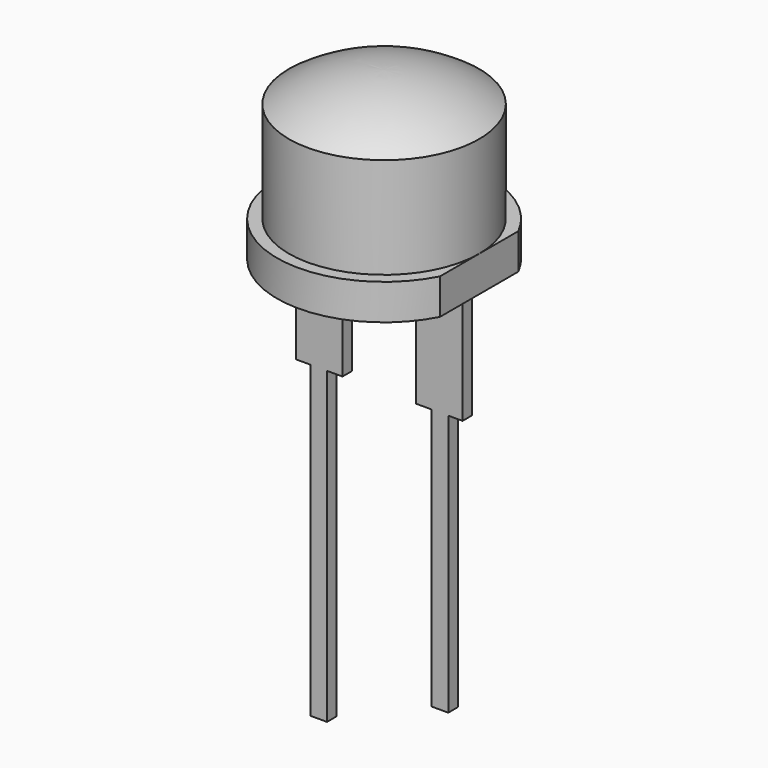
from build123d import *

# Parameters (mm, degrees)
F3_DEPTH = 7.001
F4_W     = 1.95
F4_H     = 0.5
F5_DEPTH = 4.75
F6_W     = 0.7
F6_H     = 0.5
F7_DEPTH = 11
F8_W     = 0.7
F8_H     = 0.5
F9_DEPTH = 13


with BuildPart() as f1:
    # F0 (on Front) → F1 (revolve)
    with BuildSketch(Plane.XZ):
        with BuildLine():
            Line((-4.5, 0), (0, 0))
            Line((0, 0), (0, 7))
            ThreePointArc((0, 7), (-2.096194, 6.67877), (-4, 5.744563))
            Line((-4, 5.744563), (-4, 1.5))
            Line((-4, 1.5), (-4.5, 1.5))
            Line((-4.5, 1.5), (-4.5, 0))
        make_face()
    revolve(axis=Axis((0, 0, 3.5), (0, 0, 1)))

    # F2 (on face) → F3 (cut, through all)
    with BuildSketch(Plane(origin=(0, 0, 0), x_dir=(1, 0, 0), z_dir=(0, 0, -1))):
        with BuildLine():
            ThreePointArc((4, -2.061553), (4.5, 0), (4, 2.061553))
            Line((4, 2.061553), (4, -2.061553))
        make_face()
    extrude(amount=-F3_DEPTH, mode=Mode.SUBTRACT)

    # F4 (on face) → F5 (join)
    with BuildSketch(Plane(origin=(0, 0, 0), x_dir=(1, 0, 0), z_dir=(0, 0, -1))):
        with Locations((2.525, 0)):
            Rectangle(F4_W, F4_H)
        with Locations((-2.525, 0)):
            Rectangle(F4_W, F4_H)
    extrude(amount=F5_DEPTH)

    # F6 (on face) → F7 (join)
    with BuildSketch(Plane(origin=(0, 0, -4.75), x_dir=(1, 0, 0), z_dir=(0, 0, -1))):
        with Locations((2.55, 0)):
            Rectangle(F6_W, F6_H)
    extrude(amount=F7_DEPTH)

    # F8 (on face) → F9 (join)
    with BuildSketch(Plane(origin=(0, 0, -4.75), x_dir=(1, 0, 0), z_dir=(0, 0, -1))):
        with Locations((-2.55, 0)):
            Rectangle(F8_W, F8_H)
    extrude(amount=F9_DEPTH)


with BuildPart() as f10_1:
    # F10: copy of F1
    add(f1.part)


solid = f1.part
